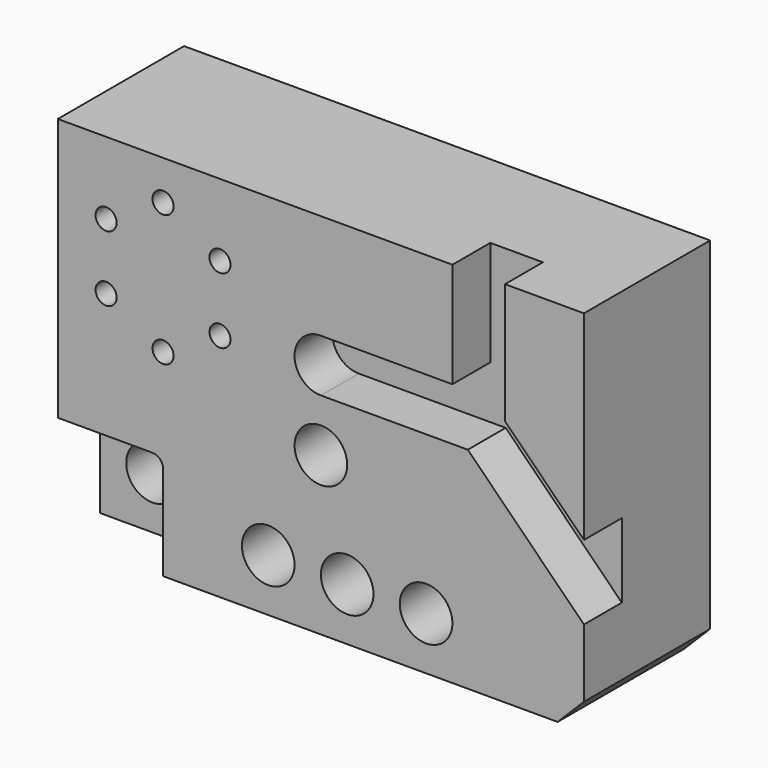
from build123d import *

# Parameters (mm, degrees)
F0_W      = 100
F0_H      = 70
F1_DEPTH  = 30
F3_DEPTH  = 9
F4_W      = 20
F4_H      = 20
F5_DEPTH  = 10
F6_R      = 5
F7_DEPTH  = 25
F8_R      = 2
F9_DEPTH  = 10
F10_R     = 5
F11_DEPTH = 41.45141
F12_SIZE  = 5
F13_R     = 2


with BuildPart() as f1:
    # F0 (on Front) → F1 (new body)
    with BuildSketch(Plane.XZ):
        with Locations((50, 35)):
            Rectangle(F0_W, F0_H)
    extrude(amount=F1_DEPTH)

    # F2 (on face) → F3 (cut)
    with BuildSketch(Plane.XZ.offset(30)):
        with BuildLine():
            Line((85.000001, 70), (75, 70))
            Line((75, 70), (75, 50))
            Line((75, 50), (50, 50))
            ThreePointArc((50, 50), (45, 45), (50, 39.999999))
            Line((50, 39.999999), (77.928933, 39.999999))
            Line((77.928933, 39.999999), (100, 17.928932))
            Line((100, 17.928932), (100, 32.07107))
            Line((100, 32.07107), (85.000001, 47.071069))
            Line((85.000001, 47.071069), (85.000001, 70))
        make_face()
    extrude(amount=-F3_DEPTH, mode=Mode.SUBTRACT)

    # F4 (on face) → F5 (cut)
    with BuildSketch(Plane.XZ.offset(30)):
        with Locations((10, 10)):
            Rectangle(F4_W, F4_H)
    extrude(amount=-F5_DEPTH, mode=Mode.SUBTRACT)

    # F6 (on face) → F7 (cut)
    with BuildSketch(Plane.XZ.offset(20)):
        with Locations((10, 10)):
            Circle(F6_R)
    extrude(amount=-F7_DEPTH, mode=Mode.SUBTRACT)

    # F8 (on face) → F9 (cut)
    with BuildSketch(Plane.XZ.offset(30)):
        with Locations((20, 62.5)):
            Circle(F8_R)
        with Locations((9.174682, 56.25)):
            Circle(F8_R)
        with Locations((9.174682, 43.75)):
            Circle(F8_R)
        with Locations((20, 37.5)):
            Circle(F8_R)
        with Locations((30.825318, 43.75)):
            Circle(F8_R)
        with Locations((30.825318, 56.25)):
            Circle(F8_R)
    extrude(amount=-F9_DEPTH, mode=Mode.SUBTRACT)

    # F10 (on face) → F11 (cut)
    with BuildSketch(Plane.XZ.offset(30)):
        with Locations((40, 10)):
            Circle(F10_R)
        with Locations((55, 10)):
            Circle(F10_R)
        with Locations((70, 10)):
            Circle(F10_R)
        with Locations((50, 30)):
            Circle(F10_R)
    extrude(amount=-F11_DEPTH, mode=Mode.SUBTRACT)

    # F12
    f12_edges = [f1.edges().sort_by_distance(p)[0] for p in [
        (100, -15, 0),
    ]]
    chamfer(f12_edges, length=F12_SIZE)

    # F13
    f13_edges = [f1.edges().sort_by_distance(p)[0] for p in [
        (20, -25, 20),
    ]]
    fillet(f13_edges, radius=F13_R)


solid = f1.part
